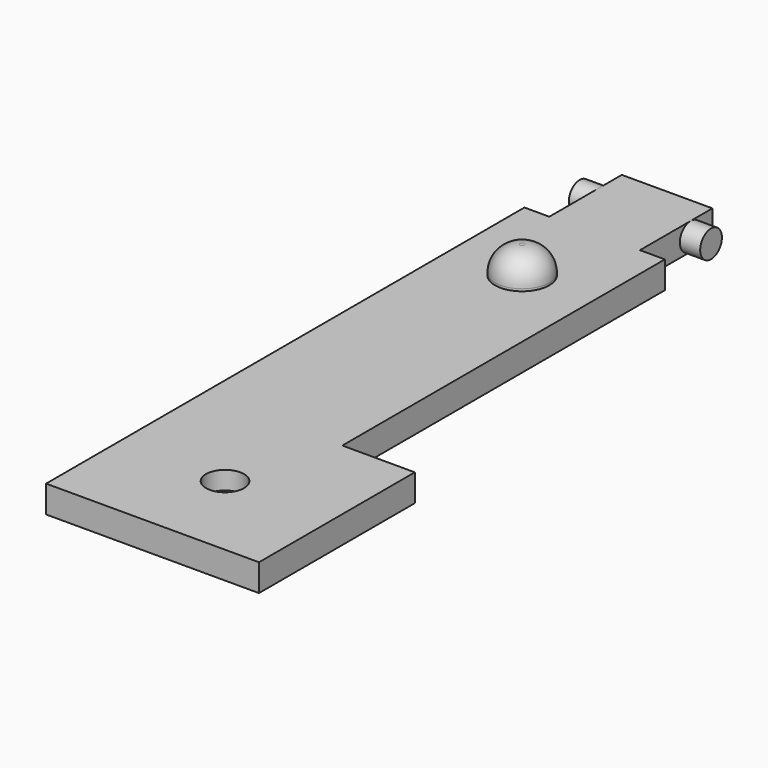
from build123d import *

# Parameters (mm, degrees)
PAD_DEPTH    = 3
SKETCH001_R  = 1.5
PAD001_DEPTH = 7.25
SKETCH002_R  = 2.1
POCKET_DEPTH = 2
SKETCH003_R  = 3
PAD002_DEPTH = 3
FILLET_R     = 2.75


with BuildPart() as part:
    # Sketch → Pad (new body)
    with BuildSketch(Plane.XY):
        Polygon((-7.75, 33), (-7.75, -33), (15.75, -33), (15.75, -11.5), (7.75, -11.5), (7.75, 33), (5, 33), (5, 43), (-5, 43), (-5, 33), align=None)
    extrude(amount=PAD_DEPTH)

    # Sketch001 → Pad001 (join, symmetric)
    with BuildSketch(Plane.YZ):
        with Locations((40, 1.5)):
            Circle(SKETCH001_R)
    extrude(amount=PAD001_DEPTH, both=True)

    # Sketch002 (on Face5 of Pad001) → Pocket (cut)
    with BuildSketch(Plane.XY.offset(3)):
        with Locations((4, -23)):
            Circle(SKETCH002_R)
    extrude(amount=-POCKET_DEPTH, mode=Mode.SUBTRACT)

    # Sketch003 (on Face5 of Pocket) → Pad002 (join)
    with BuildSketch(Plane.XY.offset(3)):
        with Locations((0, 23)):
            Circle(SKETCH003_R)
    extrude(amount=PAD002_DEPTH)

    # Fillet
    fillet_edges = [part.edges().sort_by_distance(p)[0] for p in [
        (-3, 23, 6),
    ]]
    fillet(fillet_edges, radius=FILLET_R)


solid = part.part
